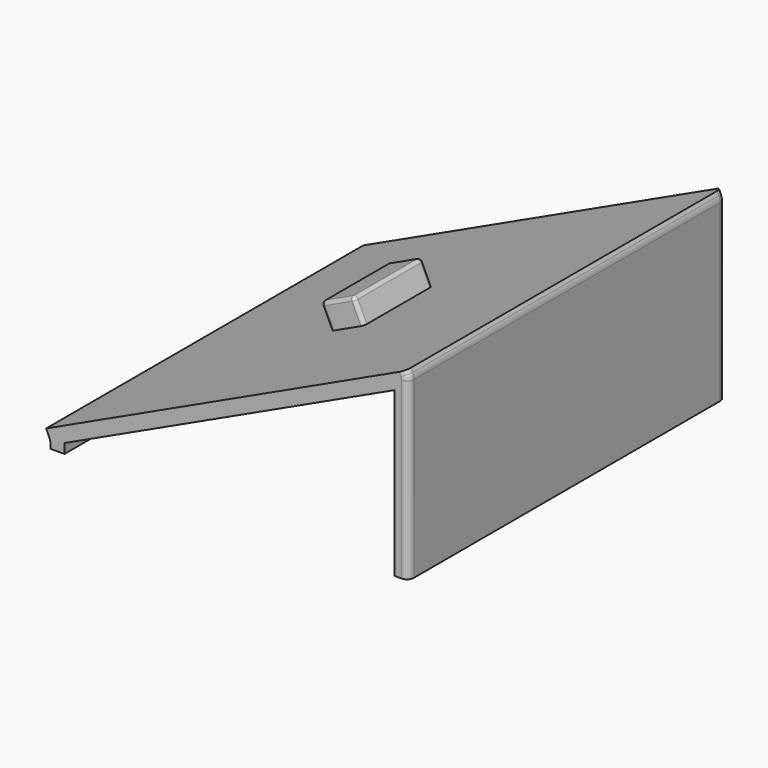
from build123d import *

# Parameters (mm, degrees)
F1_DEPTH = 56.75
F2_R     = 4
F4_DEPTH = 7
F5_R     = 1
F6_R     = 2


with BuildPart() as f1:
    # F0 (on Front) → F1 (new body, symmetric)
    with BuildSketch(Plane.XZ):
        Polygon((47.2216577835, 0), (51.2216577835, 0), (51.2216577835, 50.8734804946), (50.37642126, 52.6860960687), (-52.4895125687, 4.7189233611), (-51.2216577835, 2), (-51.2216577835, 0), (-47.2216577835, 0), (-47.2216577835, 2.8867786506), (-47.1738083736, 2.7841652599), (47.2216577835, 46.8014940241), align=None)
    extrude(amount=F1_DEPTH, both=True)

    # F2
    f2_edges = [f1.edges().sort_by_distance(p)[0] for p in [
        (51.221658, 0, 50.87348),
        (-51.221658, 0, 2),
    ]]
    fillet(f2_edges, radius=F2_R)

    # F3 (on face) → F4 (join)
    with BuildSketch(Plane(origin=(-11.1824046347, 0, 23.980744127), x_dir=(0.906307787, 0, 0.4226182617), z_dir=(-0.4226182617, 0, 0.906307787))):
        with BuildLine():
            Line((6.0774126859, -12.25), (14.5774126859, -12.25))
            ThreePointArc((14.5774126859, -12.25), (15.2845194671, -11.9571067812), (15.5774126859, -11.25))
            Line((15.5774126859, -11.25), (15.5774126859, 11.25))
            ThreePointArc((15.5774126859, 11.25), (15.2845194671, 11.9571067812), (14.5774126859, 12.25))
            Line((14.5774126859, 12.25), (6.0774126859, 12.25))
            ThreePointArc((6.0774126859, 12.25), (5.3703059047, 11.9571067812), (5.0774126859, 11.25))
            Line((5.0774126859, 11.25), (5.0774126859, -11.25))
            ThreePointArc((5.0774126859, -11.25), (5.3703059047, -11.9571067812), (6.0774126859, -12.25))
        make_face()
    extrude(amount=F4_DEPTH)

    # F5
    f5_edges = [f1.edges().sort_by_distance(p)[0] for p in [
        (-4.780918, -12.25, 34.689452),
    ]]
    fillet(f5_edges, radius=F5_R)

    # F6
    f6_edges = [f1.edges().sort_by_distance(p)[0] for p in [
        (51.221658, -56.75, 24.993351),
        (51.221658, 56.75, 24.993351),
    ]]
    fillet(f6_edges, radius=F6_R)


solid = f1.part
